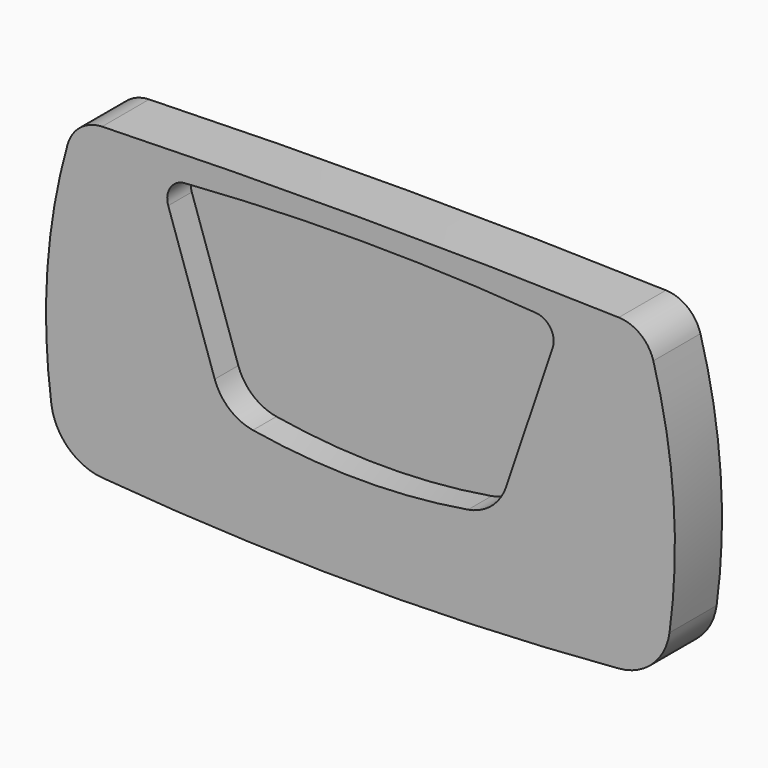
from build123d import *

# Parameters (mm, degrees)
PAD_DEPTH    = 20
POCKET_DEPTH = 10


with BuildPart() as part:
    # Sketch → Pad (new body)
    with BuildSketch(Plane.XZ):
        with BuildLine():
            ThreePointArc((0, 0), (5.749809, -11.188952), (17.230824, -16.330866))
            ThreePointArc((17.230824, -16.330866), (105, -20), (192.769176, -16.330866))
            ThreePointArc((192.769176, -16.330866), (204.250191, -11.188952), (210, 0))
            ThreePointArc((210, 0), (211.364147, 40.039591), (204.5, 79.51))
            ThreePointArc((204.5, 79.51), (200.133385, 86.009194), (192.769176, 88.669134))
            ThreePointArc((192.769176, 88.669134), (105, 90), (17.230824, 88.669134))
            ThreePointArc((17.230824, 88.669134), (9.866615, 86.009194), (5.5, 79.51))
            ThreePointArc((5.5, 79.51), (-1.364147, 40.039591), (0, 0))
        make_face()
    extrude(amount=PAD_DEPTH)

    # Sketch001 (on Face10 of Pad) → Pocket (cut)
    with BuildSketch(Plane.XZ.offset(20)):
        with BuildLine():
            ThreePointArc((164.624157, 80.885897), (105, 83.1), (45.375843, 80.885897))
            ThreePointArc((45.375843, 80.885897), (40.44004, 77.994973), (39.7, 72.322942))
            Line((39.7, 72.322942), (55.5, 25.565661))
            ThreePointArc((55.5, 25.565661), (60.452364, 18.259103), (68.455126, 14.535192))
            ThreePointArc((68.455126, 14.535192), (105, 11.5), (141.544874, 14.535192))
            ThreePointArc((141.544874, 14.535192), (149.547636, 18.259103), (154.5, 25.565661))
            Line((170.3, 72.322942), (154.5, 25.565661))
            ThreePointArc((170.3, 72.322942), (169.55996, 77.994973), (164.624157, 80.885897))
        make_face()
    extrude(amount=-POCKET_DEPTH, mode=Mode.SUBTRACT)


solid = part.part
